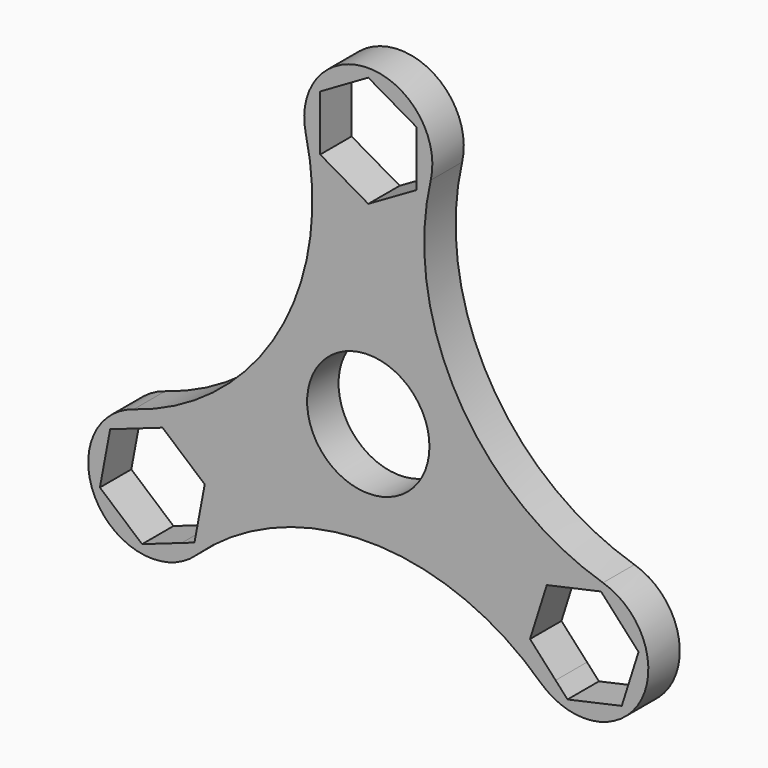
from build123d import *

# Parameters (mm, degrees)
F0_R     = 10.9
F1_DEPTH = 7


with BuildPart() as f1:
    # F0 (on Front) → F1 (new body)
    with BuildSketch(Plane.XZ):
        with BuildLine():
            ThreePointArc((41.8292028353, -11.3029487912), (15.9973702481, 9.2360860191), (11.1259606268, 41.876626671))
            ThreePointArc((11.1259606268, 41.876626671), (0, 55.8696869554), (-11.1259606268, 41.876626671))
            ThreePointArc((-11.1259606268, 41.876626671), (-15.9973702481, 9.2360860191), (-41.8292028353, -11.3029487912))
            ThreePointArc((-41.8292028353, -11.3029487912), (-48.3845682049, -27.9348434777), (-30.7032422085, -30.5736778798))
            ThreePointArc((-30.7032422085, -30.5736778798), (0, -18.4721720382), (30.7032422085, -30.5736778798))
            ThreePointArc((30.7032422085, -30.5736778798), (48.3845682049, -27.9348434777), (41.8292028353, -11.3029487912))
        make_face()
        Polygon((-36.6695744207, -12.4931307895), (-29.1541558468, -18.9397824005), (-30.9794106244, -28.671651611), (-33.2699969614, -29.4772760306), (-40.3200839758, -31.9568692105), (-47.8355025496, -25.5102175995), (-46.010247772, -15.778348389), (-42.056981042, -14.3879409796), align=None, mode=Mode.SUBTRACT)
        Polygon((42.294572947, -13.6737558569), (48.1637383341, -20.0912171021), (45.1771939619, -29.5316294896), (35.508284826, -31.6654123875), (33.3864310519, -29.3453356023), (28.8259200623, -24.3587828979), (31.8124644346, -14.9183705104), (41.4813735704, -12.7845876125), align=None, mode=Mode.SUBTRACT)
        Circle(F0_R, mode=Mode.SUBTRACT)
        Polygon((0, 54.3515571166), (8.575, 49.4007785583), (8.575, 43.6150418434), (8.575, 39.4992214417), (0, 34.5484428834), (-8.575, 39.4992214417), (-8.575, 43.6150418434), (-8.575, 49.4007785583), align=None, mode=Mode.SUBTRACT)
    extrude(amount=F1_DEPTH)


solid = f1.part
